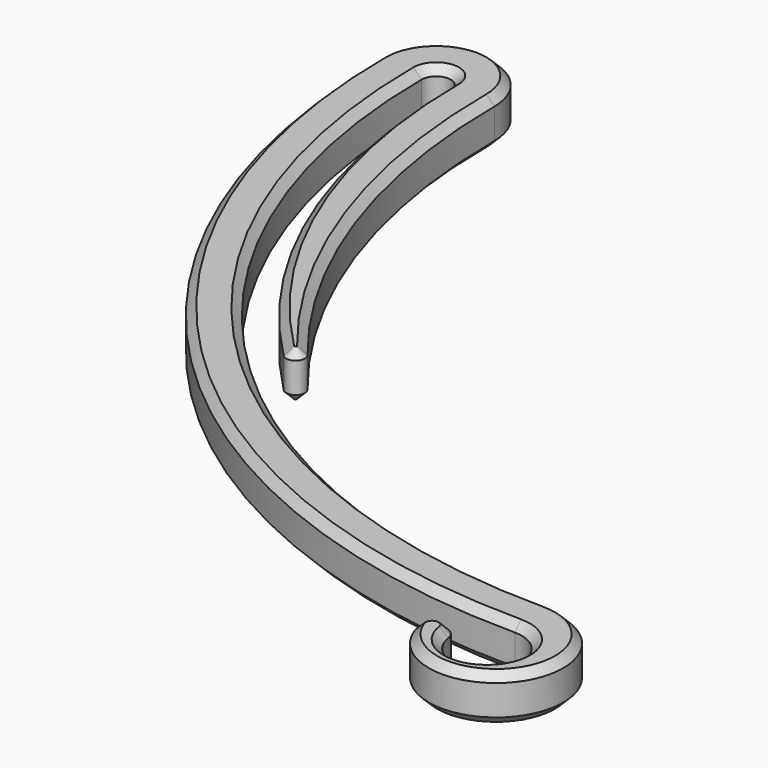
from build123d import *

# Parameters (mm, degrees)
F1_DEPTH = 4
F2_SIZE  = 0.7


with BuildPart() as f1:
    # F0 (on Top) → F1 (new body)
    with BuildSketch(Plane.XY):
        with BuildLine():
            ThreePointArc((0, -55), (-38.890873, -38.890873), (-55, 0))
            ThreePointArc((-55, 0), (-53.75, 1.25), (-52.5, 0))
            ThreePointArc((-52.5, 0), (-48.51984, -20.05181), (-37.182854, -37.063262))
            ThreePointArc((-37.182854, -37.063262), (-36.081303, -37.093318), (-35.994761, -35.994761))
            ThreePointArc((-35.994761, -35.994761), (-45.466914, -19.093971), (-48.75, 0))
            ThreePointArc((-48.75, 0), (-53.75, 5), (-58.75, 0))
            ThreePointArc((-58.75, 0), (-41.542523, -41.542523), (0, -58.75))
            ThreePointArc((0, -58.75), (2.26945, -63.712039), (-2.9685, -62.183602))
            ThreePointArc((-2.9685, -62.183602), (-4.528891, -61.14826), (-5.388211, -62.812088))
            ThreePointArc((-5.388211, -62.812088), (4.745038, -64.037025), (0, -55))
        make_face()
    extrude(amount=F1_DEPTH)

    # F2
    f2_edges = [f1.edges().sort_by_distance(p)[0] for p in [
        (2.26945, -63.712039, 4),
        (2.26945, -63.712039, 0),
    ]]
    chamfer(f2_edges, length=F2_SIZE)


solid = f1.part
